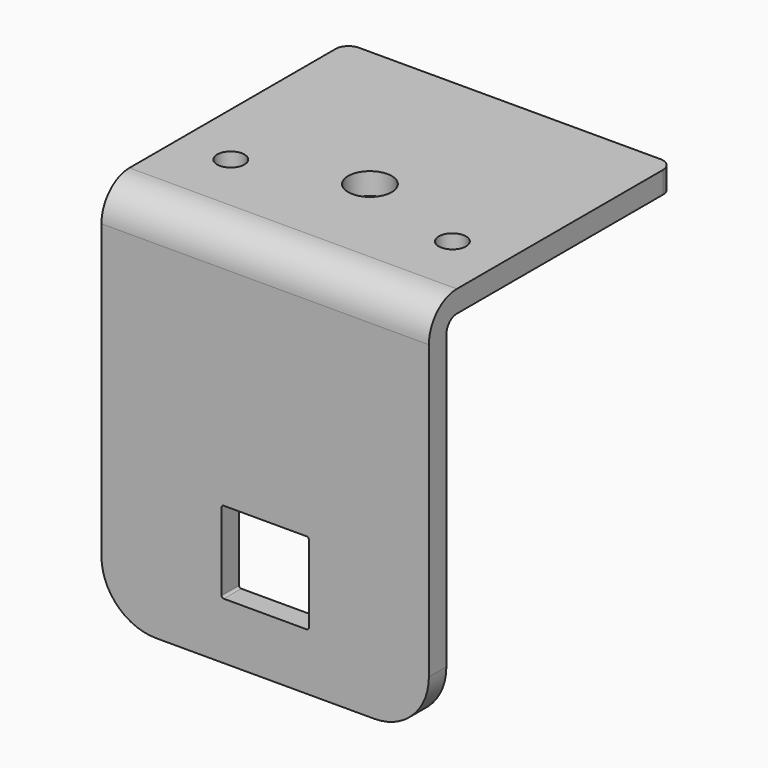
from build123d import *

# Parameters (mm, degrees)
F1_DEPTH = 38.1
F2_R     = 1.524
F3_R     = 1.5875
F3_R_2   = 2.54
F4_DEPTH = 2.54
F6_DEPTH = 2.54
F7_R     = 6.35
F8_W     = 157.243733
F8_H     = 94.123651
F9_DEPTH = 19.05
F10_R    = 1.524


with BuildPart() as f1:
    # F0 (on Right) → F1 (new body)
    with BuildSketch(Plane.YZ):
        with BuildLine():
            Line((-54.864, 1.016), (-52.324, 1.016))
            Line((-52.324, 1.016), (-52.324, 41.402))
            ThreePointArc((-52.324, 41.402), (-51.877631, 42.479631), (-50.8, 42.926))
            Line((-50.8, 42.926), (-0.254, 42.926))
            Line((-0.254, 42.926), (-0.254, 45.466))
            Line((-0.254, 45.466), (-50.8, 45.466))
            ThreePointArc((-50.8, 45.466), (-53.673682, 44.275682), (-54.864, 41.402))
            Line((-54.864, 41.402), (-54.864, 1.016))
        make_face()
    extrude(amount=F1_DEPTH)

    # F2
    f2_edges = [f1.edges().sort_by_distance(p)[0] for p in [
        (0, -0.254, 44.196),
        (38.1, -0.254, 44.196),
    ]]
    fillet(f2_edges, radius=F2_R)

    # F3 (on face) → F4 (cut, through all)
    with BuildSketch(Plane(origin=(0, 0, 42.926), x_dir=(1, 0, 0), z_dir=(0, 0, -1))):
        with Locations((6.1595, 43.7515)):
            Circle(F3_R)
        with Locations((19.05, 39.624)):
            Circle(F3_R_2)
        with Locations((31.9405, 43.7515)):
            Circle(F3_R)
        with Locations((19.05, 7.874)):
            Circle(F3_R_2)
    extrude(amount=-F4_DEPTH, mode=Mode.SUBTRACT)

    # F5 (on face) → F6 (cut, through all)
    with BuildSketch(Plane.XZ.offset(54.864)):
        with BuildLine():
            ThreePointArc((13.97, 7.874), (14.044395, 7.694395), (14.224, 7.62))
            Line((14.224, 7.62), (23.876, 7.62))
            ThreePointArc((23.876, 7.62), (24.055605, 7.694395), (24.13, 7.874))
            Line((24.13, 7.874), (24.13, 16.891))
            ThreePointArc((24.13, 16.891), (24.055605, 17.070605), (23.876, 17.145))
            Line((23.876, 17.145), (14.224, 17.145))
            ThreePointArc((14.224, 17.145), (14.044395, 17.070605), (13.97, 16.891))
            Line((13.97, 16.891), (13.97, 7.874))
        make_face()
    extrude(amount=-F6_DEPTH, mode=Mode.SUBTRACT)

    # F7
    f7_edges = [f1.edges().sort_by_distance(p)[0] for p in [
        (38.1, -53.594, 1.016),
        (0, -53.594, 1.016),
    ]]
    fillet(f7_edges, radius=F7_R)

    # F8 (on face) → F9 (cut)
    with BuildSketch(Plane(origin=(0, -0.254, 0), x_dir=(-1, 0, 0), z_dir=(0, 1, 0))):
        with Locations((-60.055602, 67.589141)):
            Rectangle(F8_W, F8_H)
    extrude(amount=-F9_DEPTH, mode=Mode.SUBTRACT)

    # F10
    f10_edges = [f1.edges().sort_by_distance(p)[0] for p in [
        (38.1, -19.304, 44.196),
        (0, -19.304, 44.196),
    ]]
    fillet(f10_edges, radius=F10_R)


solid = f1.part
